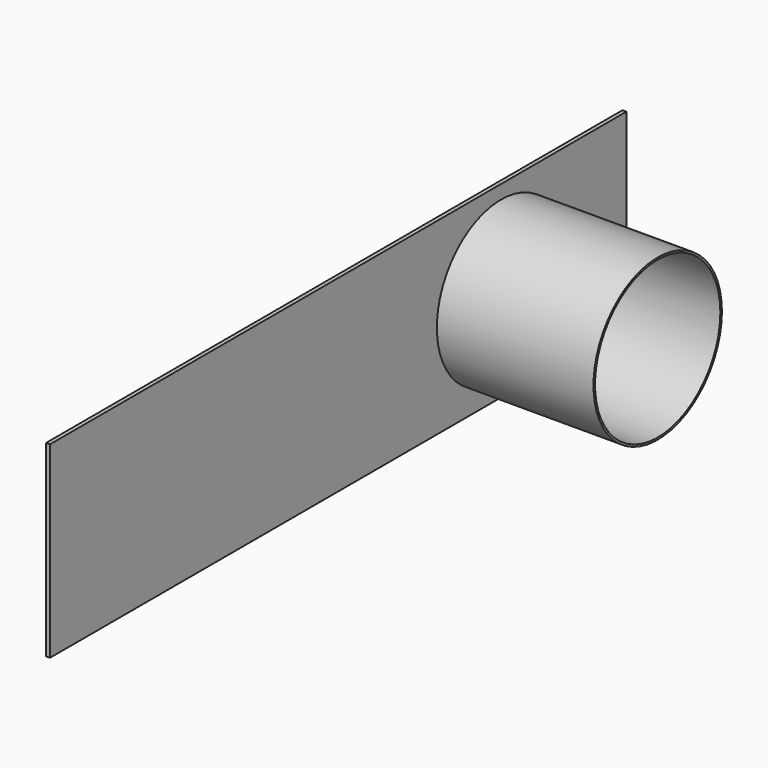
from build123d import *

# Parameters (mm, degrees)
F0_W     = 584.2
F0_H     = 152.4
F1_DEPTH = 3.175
F2_R     = 63.5
F3_DEPTH = 25.4
F4_R     = 65.0875
F4_R_2   = 63.5
F5_DEPTH = 127


with BuildPart() as f1:
    # F0 (on Right) → F1 (new body)
    with BuildSketch(Plane.YZ):
        Rectangle(F0_W, F0_H)
    extrude(amount=F1_DEPTH)

    # F2 (on face) → F3 (cut)
    with BuildSketch(Plane.YZ.offset(3.175)):
        with Locations((165.1, 0)):
            Circle(F2_R)
    extrude(amount=-F3_DEPTH, mode=Mode.SUBTRACT)

    # F4 (on face) → F5 (join)
    with BuildSketch(Plane.YZ.offset(3.175)):
        with Locations((165.1, 0)):
            Circle(F4_R)
        with Locations((165.1, 0)):
            Circle(F4_R_2, mode=Mode.SUBTRACT)
    extrude(amount=F5_DEPTH)


solid = f1.part
